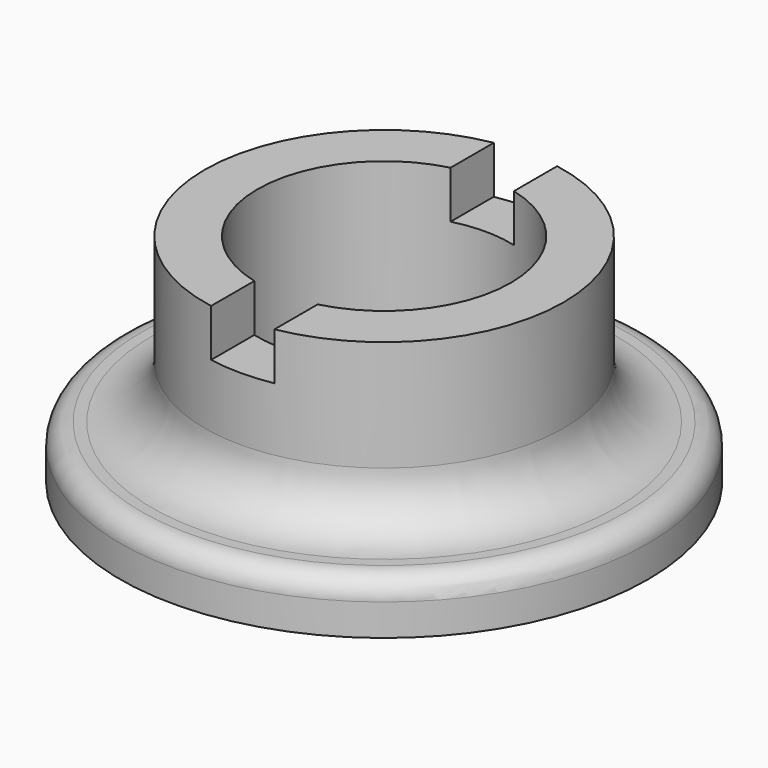
from build123d import *

# Parameters (mm, degrees)
F2_DEPTH      = 25.0010001
F2_DEPTH_BACK = 25.001


with BuildPart() as f1:
    # F0 (on Front) → F1 (revolve)
    with BuildSketch(Plane.XZ):
        with BuildLine():
            Line((14, 8), (14, 0))
            Line((14, 0), (18, 0))
            Line((18, 0), (18, 2.5))
            Line((18, 2.5), (25, 2.5))
            Line((25, 2.5), (25, 5.5))
            ThreePointArc((25, 5.5), (24.4142135624, 6.9142135624), (23, 7.5))
            Line((23, 7.5), (22, 7.5))
            ThreePointArc((22, 7.5), (18.4644660941, 8.9644660941), (17, 12.5))
            Line((17, 12.5), (17, 23))
            Line((17, 23), (12, 23))
            Line((12, 23), (12, 8))
            Line((12, 8), (14, 8))
        make_face()
    revolve(axis=Axis((0, 0, 19.0387922476), (0, 0, 1)))

    # F0 (on Front) → F2 (cut, two sides)
    with BuildSketch(Plane.XZ) as f2_sk:
        Polygon((3, 23), (0, 23), (-3, 23), (-3, 18.5), (3, 18.5), align=None)
    extrude(amount=-F2_DEPTH, mode=Mode.SUBTRACT)
    extrude(f2_sk.sketch, amount=F2_DEPTH_BACK, mode=Mode.SUBTRACT)


solid = f1.part
